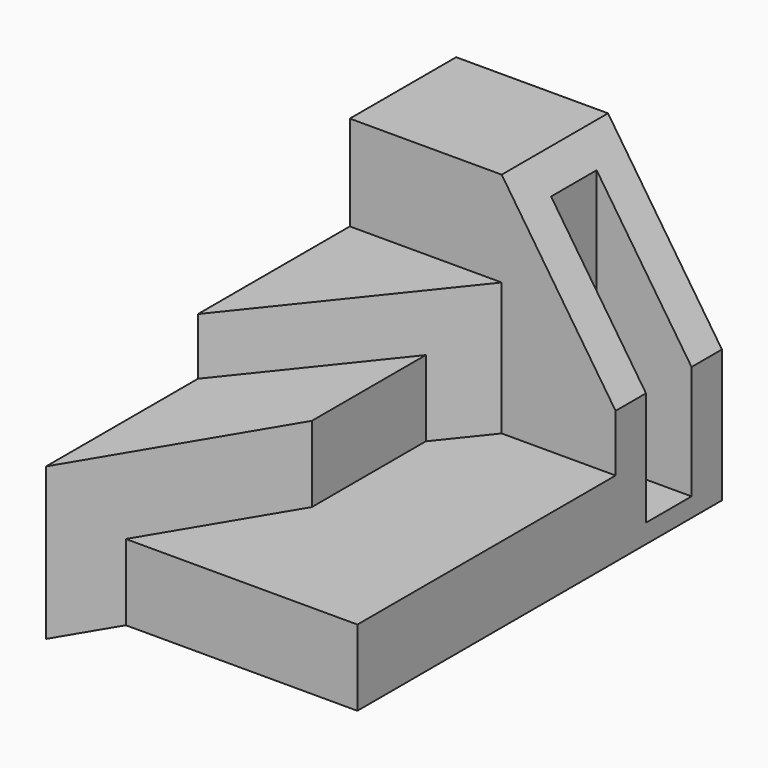
from build123d import *

# Parameters (mm, degrees)
F1_DEPTH = 40
F2_DEPTH = 55
F3_DEPTH = 80
F4_DEPTH = 20
F5_W     = 25
F5_H     = 15
F6_DEPTH = 75
F8_DEPTH = 35


with BuildPart() as f1:
    # F0 (on Top) → F1 (new body)
    with BuildSketch(Plane.XY):
        Polygon((0, 50), (0, 0), (9, 15), (30, 50), (30, 87.5), align=None)
    extrude(amount=F1_DEPTH)

    # F0 (on Top) → F2 (join)
    with BuildSketch(Plane.XY):
        Polygon((0, 100), (0, 50), (30, 87.5), (40, 100), align=None)
    extrude(amount=F2_DEPTH)

    # F0 (on Top) → F3 (join)
    with BuildSketch(Plane.XY):
        Polygon((0, 135), (0, 100), (40, 100), (70, 100), (70, 135), align=None)
    extrude(amount=F3_DEPTH)

    # F0 (on Top) → F4 (join)
    with BuildSketch(Plane.XY):
        Polygon((30, 50), (9, 15), (70, 15), (70, 100), (40, 100), (30, 87.5), align=None)
    extrude(amount=F4_DEPTH)

    # F5 (on face) → F6 (cut)
    with BuildSketch(Plane.XY.offset(80)):
        with Locations((57.5, 117.5)):
            Rectangle(F5_W, F5_H)
    extrude(amount=-F6_DEPTH, mode=Mode.SUBTRACT)

    # F7 (on face) → F8 (cut, through all)
    with BuildSketch(Plane(origin=(0, 135, 0), x_dir=(-1, 0, 0), z_dir=(0, 1, 0))):
        Polygon((-70, 80), (-70, 35), (-40, 80), align=None)
    extrude(amount=-F8_DEPTH, mode=Mode.SUBTRACT)


solid = f1.part
